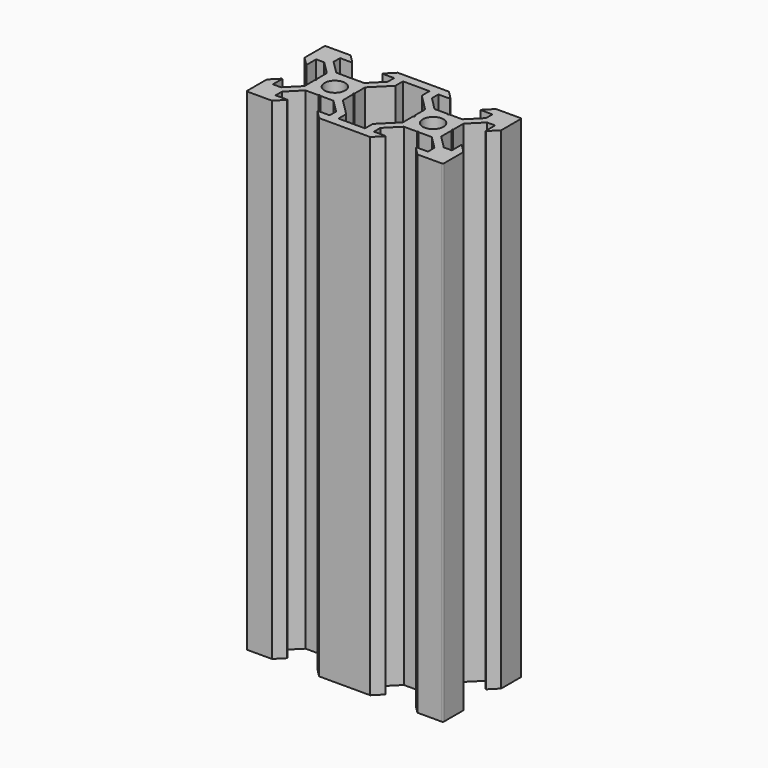
from build123d import *

# Parameters (mm, degrees)
SKETCH_R         = 2.1
PAD_DEPTH        = 100
CHAMFER_1_ANGLE  = 45
CHAMFER_1_SIZE   = 1.7
CHAMFER_2_ANGLE  = 45
CHAMFER_2_SIZE   = 1.7
CHAMFER_3_ANGLE  = 45
CHAMFER_3_SIZE   = 1.7
CHAMFER_4_ANGLE  = 45
CHAMFER_4_SIZE   = 1.7
CHAMFER_5_ANGLE  = 45
CHAMFER_5_SIZE   = 1.7
CHAMFER_6_ANGLE  = 45
CHAMFER_6_SIZE   = 1.7
CHAMFER_7_ANGLE  = 45
CHAMFER_7_SIZE   = 1.7
CHAMFER_8_ANGLE  = 45
CHAMFER_8_SIZE   = 1.7
CHAMFER_9_ANGLE  = 45
CHAMFER_9_SIZE   = 1.7
CHAMFER_10_ANGLE = 45
CHAMFER_10_SIZE  = 1.7
CHAMFER_11_ANGLE = 45
CHAMFER_11_SIZE  = 1.7
CHAMFER_12_ANGLE = 45
CHAMFER_12_SIZE  = 1.7
FILLET_R         = 0.2


with BuildPart() as part:
    # Sketch → Pad (new body)
    with BuildSketch(Plane.XY):
        Polygon((0, 3.723883), (0.176777, 3.90066), (2.84, 3.90066), (5.49934, 6.56), (5.49934, 8.2), (3.1, 8.2), (3.1, 10), (16.9, 10), (16.9, 8.2), (14.50066, 8.2), (14.50066, 6.56), (17.16, 3.90066), (19.823223, 3.90066), (20, 3.723883), (20.176777, 3.90066), (22.84, 3.90066), (25.49934, 6.56), (25.49934, 8.2), (23.1, 8.2), (23.1, 10), (30, 10), (30, 3.1), (28.2, 3.1), (28.2, 5.49934), (26.56, 5.49934), (23.90066, 2.84), (23.90066, 0.176777), (23.723883, 0), (23.90066, -0.176777), (23.90066, -2.84), (26.56, -5.49934), (28.2, -5.49934), (28.2, -3.1), (30, -3.1), (30, -10), (23.1, -10), (23.1, -8.2), (25.49934, -8.2), (25.49934, -6.56), (22.84, -3.90066), (20.176777, -3.90066), (20, -3.723883), (19.823223, -3.90066), (17.16, -3.90066), (14.50066, -6.56), (14.50066, -8.2), (16.9, -8.2), (16.9, -10), (3.1, -10), (3.1, -8.2), (5.49934, -8.2), (5.49934, -6.56), (2.84, -3.90066), (0.176777, -3.90066), (0, -3.723883), (-0.176777, -3.90066), (-2.84, -3.90066), (-5.49934, -6.56), (-5.49934, -8.2), (-3.1, -8.2), (-3.1, -10), (-10, -10), (-10, -3.1), (-8.2, -3.1), (-8.2, -5.49934), (-6.56, -5.49934), (-3.90066, -2.84), (-3.90066, -0.176777), (-3.723883, 0), (-3.90066, 0.176777), (-3.90066, 2.84), (-6.56, 5.49934), (-8.2, 5.49934), (-8.2, 3.1), (-10, 3.1), (-10, 10), (-3.1, 10), (-3.1, 8.2), (-5.49934, 8.2), (-5.49934, 6.56), (-2.84, 3.90066), (-0.176777, 3.90066), align=None)
        Circle(SKETCH_R, mode=Mode.SUBTRACT)
        with Locations((20, 0)):
            Circle(SKETCH_R, mode=Mode.SUBTRACT)
        Polygon((7.29934, 6.23868), (3.90066, 2.84), (3.90066, 0.176777), (3.723883, 0), (3.90066, -0.176777), (3.90066, -2.84), (7.29934, -6.23868), (7.29934, -8.2), (12.70066, -8.2), (12.70066, -6.23868), (16.09934, -2.84), (16.09934, -0.176777), (16.276117, 0), (16.09934, 0.176777), (16.09934, 2.84), (12.70066, 6.23868), (12.70066, 8.2), (7.29934, 8.2), align=None, mode=Mode.SUBTRACT)
    extrude(amount=PAD_DEPTH)

    # Chamfer 1
    chamfer_1_edges = [part.edges().sort_by_distance(p)[0] for p in [
        (3.1, -10, 50),
    ]]
    chamfer_1_side = part.faces().sort_by_distance((10, -10, 50))[0]
    chamfer(chamfer_1_edges, length=CHAMFER_1_SIZE, angle=CHAMFER_1_ANGLE, reference=chamfer_1_side)

    # Chamfer 2
    chamfer_2_edges = [part.edges().sort_by_distance(p)[0] for p in [
        (16.9, -10, 50),
    ]]
    chamfer_2_side = part.faces().sort_by_distance((16.9, -9.1, 50))[0]
    chamfer(chamfer_2_edges, length=CHAMFER_2_SIZE, angle=CHAMFER_2_ANGLE, reference=chamfer_2_side)

    # Chamfer 3
    chamfer_3_edges = [part.edges().sort_by_distance(p)[0] for p in [
        (23.1, -10, 50),
    ]]
    chamfer_3_side = part.faces().sort_by_distance((26.55, -10, 50))[0]
    chamfer(chamfer_3_edges, length=CHAMFER_3_SIZE, angle=CHAMFER_3_ANGLE, reference=chamfer_3_side)

    # Chamfer 4
    chamfer_4_edges = [part.edges().sort_by_distance(p)[0] for p in [
        (-3.1, -10, 50),
    ]]
    chamfer_4_side = part.faces().sort_by_distance((-3.1, -9.1, 50))[0]
    chamfer(chamfer_4_edges, length=CHAMFER_4_SIZE, angle=CHAMFER_4_ANGLE, reference=chamfer_4_side)

    # Chamfer 5
    chamfer_5_edges = [part.edges().sort_by_distance(p)[0] for p in [
        (30, -3.1, 50),
    ]]
    chamfer_5_side = part.faces().sort_by_distance((29.1, -3.1, 50))[0]
    chamfer(chamfer_5_edges, length=CHAMFER_5_SIZE, angle=CHAMFER_5_ANGLE, reference=chamfer_5_side)

    # Chamfer 6
    chamfer_6_edges = [part.edges().sort_by_distance(p)[0] for p in [
        (30, 3.1, 50),
    ]]
    chamfer_6_side = part.faces().sort_by_distance((30, 6.55, 50))[0]
    chamfer(chamfer_6_edges, length=CHAMFER_6_SIZE, angle=CHAMFER_6_ANGLE, reference=chamfer_6_side)

    # Chamfer 7
    chamfer_7_edges = [part.edges().sort_by_distance(p)[0] for p in [
        (23.1, 10, 50),
    ]]
    chamfer_7_side = part.faces().sort_by_distance((23.1, 9.1, 50))[0]
    chamfer(chamfer_7_edges, length=CHAMFER_7_SIZE, angle=CHAMFER_7_ANGLE, reference=chamfer_7_side)

    # Chamfer 8
    chamfer_8_edges = [part.edges().sort_by_distance(p)[0] for p in [
        (16.9, 10, 50),
    ]]
    chamfer_8_side = part.faces().sort_by_distance((10, 10, 50))[0]
    chamfer(chamfer_8_edges, length=CHAMFER_8_SIZE, angle=CHAMFER_8_ANGLE, reference=chamfer_8_side)

    # Chamfer 9
    chamfer_9_edges = [part.edges().sort_by_distance(p)[0] for p in [
        (3.1, 10, 50),
    ]]
    chamfer_9_side = part.faces().sort_by_distance((3.1, 9.1, 50))[0]
    chamfer(chamfer_9_edges, length=CHAMFER_9_SIZE, angle=CHAMFER_9_ANGLE, reference=chamfer_9_side)

    # Chamfer 10
    chamfer_10_edges = [part.edges().sort_by_distance(p)[0] for p in [
        (-3.1, 10, 50),
    ]]
    chamfer_10_side = part.faces().sort_by_distance((-6.55, 10, 50))[0]
    chamfer(chamfer_10_edges, length=CHAMFER_10_SIZE, angle=CHAMFER_10_ANGLE, reference=chamfer_10_side)

    # Chamfer 11
    chamfer_11_edges = [part.edges().sort_by_distance(p)[0] for p in [
        (-10, -3.1, 50),
    ]]
    chamfer_11_side = part.faces().sort_by_distance((-10, -6.55, 50))[0]
    chamfer(chamfer_11_edges, length=CHAMFER_11_SIZE, angle=CHAMFER_11_ANGLE, reference=chamfer_11_side)

    # Chamfer 12
    chamfer_12_edges = [part.edges().sort_by_distance(p)[0] for p in [
        (-10, 3.1, 50),
    ]]
    chamfer_12_side = part.faces().sort_by_distance((-9.1, 3.1, 50))[0]
    chamfer(chamfer_12_edges, length=CHAMFER_12_SIZE, angle=CHAMFER_12_ANGLE, reference=chamfer_12_side)

    # Fillet
    fillet_edges = [part.edges().sort_by_distance(p)[0] for p in [
        (-10, -10, 50),
        (-10, 10, 50),
        (30, 10, 50),
        (30, -10, 50),
    ]]
    fillet(fillet_edges, radius=FILLET_R)


solid = part.part
